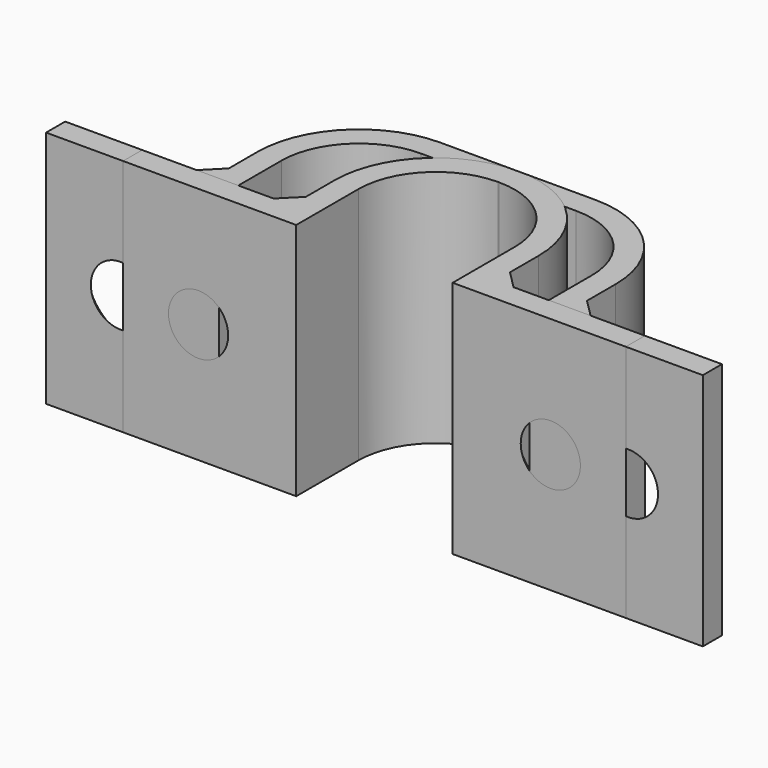
from build123d import *

# Parameters (mm, degrees)
PAD_DEPTH           = 20
HOLE_D              = 5
HOLE_DEPTH          = 25
HOLE_CSINK_D        = 9
HOLE_CSINK_ANGLE    = 90
CHAMFER_SIZE        = 1.5
PAD001_DEPTH        = 20
HOLE001_D           = 5
HOLE001_DEPTH       = 25
HOLE001_CSINK_D     = 9
HOLE001_CSINK_ANGLE = 90
CHAMFER001_SIZE     = 1.5


with BuildPart() as bodydouble:
    # Sketch → Pad (new body)
    with BuildSketch(Plane.XY):
        with BuildLine():
            ThreePointArc((-6.5, 11), (-11.096194, 9.096194), (-13, 4.5))
            Line((-13, -2), (-13, 4.5))
            Line((-13, -2), (-27.5, -2))
            Line((-27.5, -2), (-27.5, 0))
            Line((-27.5, 0), (-15, 0))
            Line((-15, 0), (-15, 4.5))
            ThreePointArc((-6.5, 13), (-12.510408, 10.510408), (-15, 4.5))
            Line((-6.5, 13), (0, 13))
            Line((6.5, 13), (0, 13))
            ThreePointArc((15, 4.5), (12.510408, 10.510408), (6.5, 13))
            Line((15, 0), (15, 4.5))
            Line((27.5, 0), (15, 0))
            Line((27.5, -2), (27.5, 0))
            Line((13, -2), (27.5, -2))
            Line((13, -2), (13, 4.5))
            ThreePointArc((13, 4.5), (11.096194, 9.096194), (6.5, 11))
            Line((6.5, 11), (0, 11))
            Line((-6.5, 11), (0, 11))
        make_face()
    extrude(amount=PAD_DEPTH)

    # Hole
    with Locations(Plane(origin=(0, 0, 0), x_dir=(1, 0, 0), z_dir=(0, 1, 0))):
        with Locations((-21.25, -10), (21.25, -10)):
            CounterSinkHole(HOLE_D / 2, HOLE_CSINK_D / 2, depth=HOLE_DEPTH, counter_sink_angle=HOLE_CSINK_ANGLE)

    # Chamfer
    chamfer_edges = [bodydouble.edges().sort_by_distance(p)[0] for p in [
        (15, 0, 10),
        (-15, 0, 10),
    ]]
    chamfer(chamfer_edges, length=CHAMFER_SIZE)


with BuildPart() as bodysingle:
    # Sketch002 → Pad001 (new body)
    with BuildSketch(Plane.XY):
        with BuildLine():
            ThreePointArc((-0.05, 11), (-4.646194, 9.096194), (-6.55, 4.5))
            Line((-6.55, -2), (-6.55, 4.5))
            Line((-6.55, -2), (-21.05, -2))
            Line((-21.05, -2), (-21.05, 0))
            Line((-21.05, 0), (-8.55, 0))
            Line((-8.55, 0), (-8.55, 4.5))
            ThreePointArc((-0.05, 13), (-6.060408, 10.510408), (-8.55, 4.5))
            Line((-0.05, 13), (0, 13))
            Line((0.05, 13), (0, 13))
            ThreePointArc((8.55, 4.5), (6.060408, 10.510408), (0.05, 13))
            Line((8.55, 0), (8.55, 4.5))
            Line((21.05, 0), (8.55, 0))
            Line((21.05, -2), (21.05, 0))
            Line((6.55, -2), (21.05, -2))
            Line((6.55, -2), (6.55, 4.5))
            ThreePointArc((6.55, 4.5), (4.646194, 9.096194), (0.05, 11))
            Line((0.05, 11), (0, 11))
            Line((-0.05, 11), (0, 11))
        make_face()
    extrude(amount=PAD001_DEPTH)

    # Hole001
    with Locations(Plane(origin=(0, 0, 0), x_dir=(1, 0, 0), z_dir=(0, 1, 0))):
        with Locations((-14.75, -10), (14.75, -10)):
            CounterSinkHole(HOLE001_D / 2, HOLE001_CSINK_D / 2, depth=HOLE001_DEPTH, counter_sink_angle=HOLE001_CSINK_ANGLE)

    # Chamfer001
    chamfer001_edges = [bodysingle.edges().sort_by_distance(p)[0] for p in [
        (8.55, 0, 10),
        (-8.55, 0, 10),
    ]]
    chamfer(chamfer001_edges, length=CHAMFER001_SIZE)


solid = Compound([bodydouble.part, bodysingle.part])
